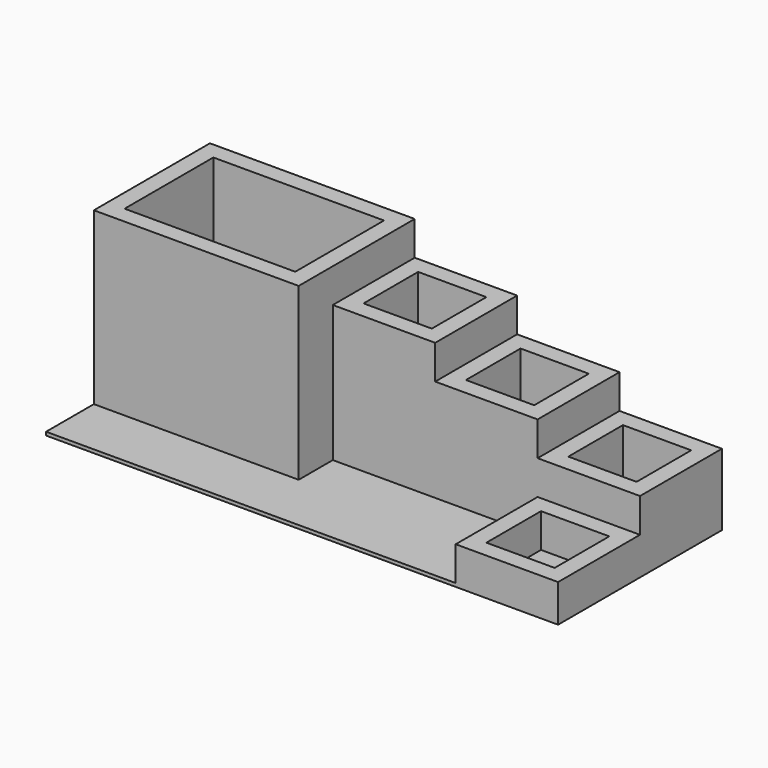
from build123d import *

# Parameters (mm, degrees)
F1_DEPTH  = 20
F2_W      = 600
F2_H      = 600
F2_W_2    = 400
F2_H_2    = 400
F3_DEPTH  = 400
F4_W      = 600
F4_H      = 600
F4_W_2    = 400
F4_H_2    = 400
F5_DEPTH  = 600
F6_W      = 600
F6_H      = 600
F6_W_2    = 400
F6_H_2    = 400
F7_DEPTH  = 800
F8_W      = 1200
F8_H      = 850
F8_W_2    = 1000
F8_H_2    = 650
F9_DEPTH  = 1000
F10_W     = 600
F10_H     = 600
F10_W_2   = 400
F10_H_2   = 400
F11_DEPTH = 200


with BuildPart() as f1:
    # F0 (on Top) → F1 (new body)
    with BuildSketch(Plane.XY):
        Polygon((-2563.636364, 0), (0, 0), (0, 1200), (-3000, 1200), (-3000, 0), align=None)
    extrude(amount=F1_DEPTH)

    # F2 (on face) → F3 (join)
    with BuildSketch(Plane.XY.offset(20)):
        with Locations((-300, 900)):
            Rectangle(F2_W, F2_H)
        with Locations((-300, 900)):
            Rectangle(F2_W_2, F2_H_2, mode=Mode.SUBTRACT)
    extrude(amount=F3_DEPTH)

    # F4 (on face) → F5 (join)
    with BuildSketch(Plane.XY.offset(20)):
        with Locations((-900, 900)):
            Rectangle(F4_W, F4_H)
        with Locations((-900, 900)):
            Rectangle(F4_W_2, F4_H_2, mode=Mode.SUBTRACT)
    extrude(amount=F5_DEPTH)

    # F6 (on face) → F7 (join)
    with BuildSketch(Plane.XY.offset(20)):
        with Locations((-1500, 900)):
            Rectangle(F6_W, F6_H)
        with Locations((-1500, 900)):
            Rectangle(F6_W_2, F6_H_2, mode=Mode.SUBTRACT)
    extrude(amount=F7_DEPTH)

    # F8 (on face) → F9 (join)
    with BuildSketch(Plane.XY.offset(20)):
        with Locations((-2400, 775)):
            Rectangle(F8_W, F8_H)
        with Locations((-2400, 775)):
            Rectangle(F8_W_2, F8_H_2, mode=Mode.SUBTRACT)
    extrude(amount=F9_DEPTH)

    # F10 (on face) → F11 (join)
    with BuildSketch(Plane.XY.offset(20)):
        with Locations((-300, 300)):
            Rectangle(F10_W, F10_H)
        with Locations((-300, 300)):
            Rectangle(F10_W_2, F10_H_2, mode=Mode.SUBTRACT)
    extrude(amount=F11_DEPTH)


solid = f1.part
